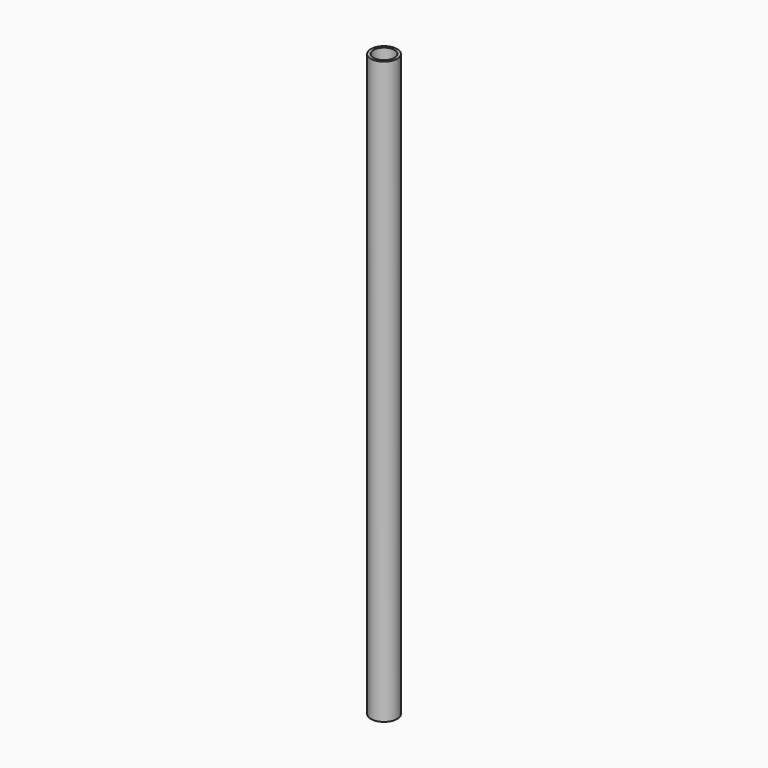
from build123d import *

# Parameters (mm, degrees)
SKETCH_R   = 5
SKETCH_R_2 = 4
PAD_DEPTH  = 220


with BuildPart() as part:
    # Sketch → Pad (new body)
    with BuildSketch(Plane.XY):
        Circle(SKETCH_R)
        Circle(SKETCH_R_2, mode=Mode.SUBTRACT)
    extrude(amount=PAD_DEPTH)


solid = part.part
